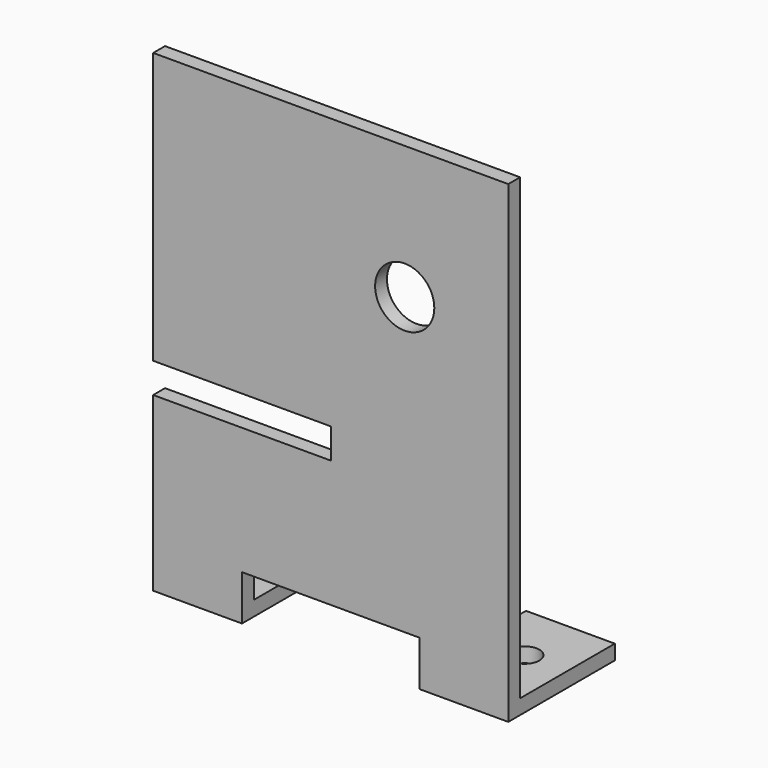
from build123d import *

# Parameters (mm, degrees)
F0_R     = 12.7
F1_DEPTH = 6.35
F2_W     = 38.1
F2_H     = 6.35
F3_DEPTH = 50.8
F4_R     = 6.35
F5_DEPTH = 25.4


with BuildPart() as f1:
    # F0 (on Front) → F1 (new body)
    with BuildSketch(Plane.XZ):
        Polygon((44.45, 57.15), (-107.95, 57.15), (-107.95, -59.163763), (-31.618457, -59.163763), (-31.618457, -72.087309), (-107.95, -72.087309), (-107.95, -146.05), (-69.85, -146.05), (-69.85, -126.62439), (6.35, -126.62439), (6.35, -146.05), (44.45, -146.05), align=None)
        Circle(F0_R, mode=Mode.SUBTRACT)
    extrude(amount=F1_DEPTH)

    # F2 (on face) → F3 (join)
    with BuildSketch(Plane(origin=(0, 0, 0), x_dir=(-1, 0, 0), z_dir=(0, 1, 0))):
        with Locations((-25.4, -142.875)):
            Rectangle(F2_W, F2_H)
        with Locations((88.9, -142.875)):
            Rectangle(F2_W, F2_H)
    extrude(amount=F3_DEPTH)

    # F4 (on face) → F5 (cut)
    with BuildSketch(Plane.XY.offset(-139.7)):
        with Locations((26.022155, 25.4)):
            Circle(F4_R)
        with Locations((-90.712979, 26.081869)):
            Circle(F4_R)
    extrude(amount=-F5_DEPTH, mode=Mode.SUBTRACT)


solid = f1.part
